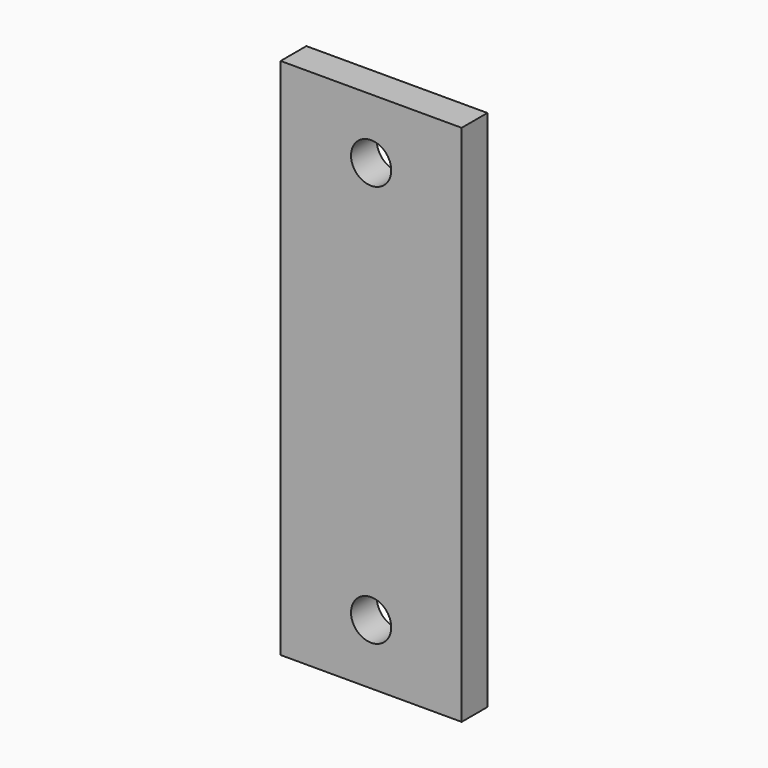
from build123d import *

# Parameters (mm, degrees)
F0_W     = 45
F0_H     = 130
F0_R     = 5
F1_DEPTH = 4


with BuildPart() as f1:
    # F0 (on Front) → F1 (new body, symmetric)
    with BuildSketch(Plane.XZ):
        Rectangle(F0_W, F0_H)
        with Locations((0, -50)):
            Circle(F0_R, mode=Mode.SUBTRACT)
        with Locations((0, 50)):
            Circle(F0_R, mode=Mode.SUBTRACT)
    extrude(amount=F1_DEPTH, both=True)


solid = f1.part
